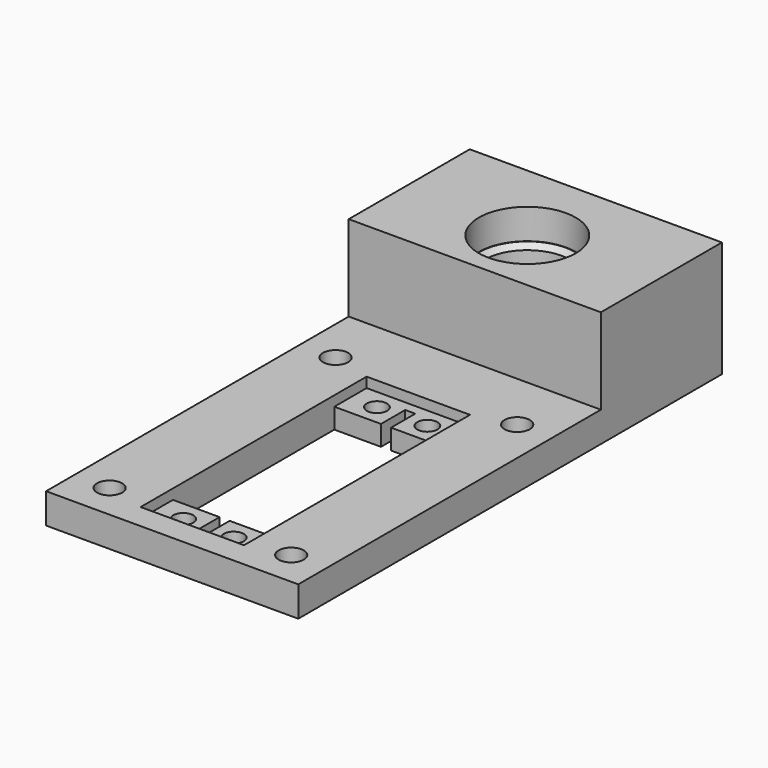
from build123d import *

# Parameters (mm, degrees)
F0_W     = 50
F0_H     = 75
F0_R     = 2.5
F0_R_2   = 2
F0_H_2   = 30
F0_R_3   = 9.6
F1_DEPTH = 6
F2_DEPTH = 2
F3_DEPTH = 17
F0_R_4   = 8.5
F4_DEPTH = 11
F5_SIZE  = 1


with BuildPart() as f1:
    # F0 (on Top) → F1 (new body)
    with BuildSketch(Plane.XY):
        with Locations((25, 37.5)):
            Rectangle(F0_W, F0_H)
        with Locations((7, 7)):
            Circle(F0_R, mode=Mode.SUBTRACT)
        with Locations((43, 7)):
            Circle(F0_R, mode=Mode.SUBTRACT)
        Polygon((35.25, 5), (14.75, 5), (14.75, 13), (14.75, 53), (14.75, 61), (35.25, 61), (35.25, 53), (35.25, 13), align=None, mode=Mode.SUBTRACT)
        with Locations((7, 63)):
            Circle(F0_R, mode=Mode.SUBTRACT)
        with Locations((43, 63)):
            Circle(F0_R, mode=Mode.SUBTRACT)
        Polygon((14.75, 61), (14.75, 53), (24, 53), (24, 59), (26, 59), (26, 53), (35.25, 53), (35.25, 61), align=None)
        with Locations((20, 57)):
            Circle(F0_R_2, mode=Mode.SUBTRACT)
        with Locations((30, 57)):
            Circle(F0_R_2, mode=Mode.SUBTRACT)
        Polygon((14.75, 13), (14.75, 5), (35.25, 5), (35.25, 13), (26, 13), (26, 7), (24, 7), (24, 13), align=None)
        with Locations((20, 9)):
            Circle(F0_R_2, mode=Mode.SUBTRACT)
        with Locations((30, 9)):
            Circle(F0_R_2, mode=Mode.SUBTRACT)
        with Locations((25, 90)):
            Rectangle(F0_W, F0_H_2)
        with Locations((25, 88.0167)):
            Circle(F0_R_3, mode=Mode.SUBTRACT)
    extrude(amount=-F1_DEPTH)

    # F0 (on Top) → F2 (cut)
    with BuildSketch(Plane.XY):
        Polygon((14.75, 61), (14.75, 53), (24, 53), (24, 59), (26, 59), (26, 53), (35.25, 53), (35.25, 61), align=None)
        with Locations((20, 57)):
            Circle(F0_R_2, mode=Mode.SUBTRACT)
        with Locations((30, 57)):
            Circle(F0_R_2, mode=Mode.SUBTRACT)
        Polygon((14.75, 13), (14.75, 5), (35.25, 5), (35.25, 13), (26, 13), (26, 7), (24, 7), (24, 13), align=None)
        with Locations((20, 9)):
            Circle(F0_R_2, mode=Mode.SUBTRACT)
        with Locations((30, 9)):
            Circle(F0_R_2, mode=Mode.SUBTRACT)
    extrude(amount=-F2_DEPTH, mode=Mode.SUBTRACT)

    # F0 (on Top) → F3 (join)
    with BuildSketch(Plane.XY):
        with Locations((25, 90)):
            Rectangle(F0_W, F0_H_2)
        with Locations((25, 88.0167)):
            Circle(F0_R_3, mode=Mode.SUBTRACT)
    extrude(amount=F3_DEPTH)

    # F0 (on Top) → F4 (join)
    with BuildSketch(Plane.XY):
        with Locations((25, 88.0167)):
            Circle(F0_R_3)
        with Locations((25, 88.0167)):
            Circle(F0_R_4, mode=Mode.SUBTRACT)
    extrude(amount=F4_DEPTH)

    # F5
    f5_edges = [f1.edges().sort_by_distance(p)[0] for p in [
        (16.5, 88.0167, 11),
        (16.5, 88.0167, 0),
    ]]
    chamfer(f5_edges, length=F5_SIZE)


solid = f1.part
